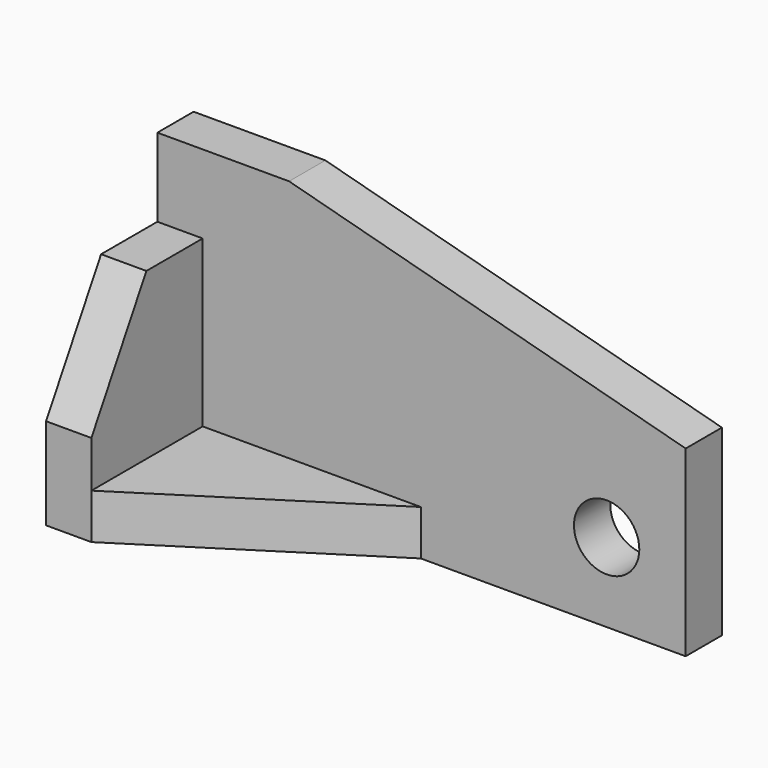
from build123d import *

# Parameters (mm, degrees)
F0_R     = 7.874
F1_DEPTH = 10.922
F2_W     = 52.578
F2_H     = 10.922
F3_DEPTH = 33.528
F4_SIZE2 = 16.5711074263
F4_SIZE  = 28.702
F6_DEPTH = 10.923


with BuildPart() as f1:
    # F0 (on Front) → F1 (new body)
    with BuildSketch(Plane.XZ):
        Polygon((-46.3958915723, 58.6556293481), (-78.1458915723, 58.6556293481), (-78.1458915723, -11.0481244944), (49.1894248783, -11.0481244944), (49.1894248783, 33.0436209969), align=None)
        with Locations((30.1394248783, 8.0018755056)):
            Circle(F0_R, mode=Mode.SUBTRACT)
    extrude(amount=F1_DEPTH)

    # F2 (on face) → F3 (join)
    with BuildSketch(Plane.XZ.offset(10.922)):
        Polygon((-67.2238915723, 39.7518755056), (-78.1458915723, 39.7518755056), (-78.1458915723, -11.0481244944), (-67.2238915723, -11.0481244944), (-67.2238915723, -0.1261244944), align=None)
        with Locations((-40.9348915723, -5.5871244944)):
            Rectangle(F2_W, F2_H)
    extrude(amount=F3_DEPTH)

    # F4
    f4_edges = [f1.edges().sort_by_distance(p)[0] for p in [
        (-72.684892, -44.45, 39.751876),
    ]]
    f4_side = f1.faces().sort_by_distance((-68.037088, -44.45, 19.812876))[0]
    chamfer(f4_edges, length=F4_SIZE, length2=F4_SIZE2, reference=f4_side)

    # F5 (on face) → F6 (cut, through all)
    with BuildSketch(Plane.XY.offset(-0.1261244944)):
        Polygon((-14.6458915723, -10.922), (-67.2238915723, -44.45), (-14.6458915723, -44.45), align=None)
    extrude(amount=-F6_DEPTH, mode=Mode.SUBTRACT)


solid = f1.part
